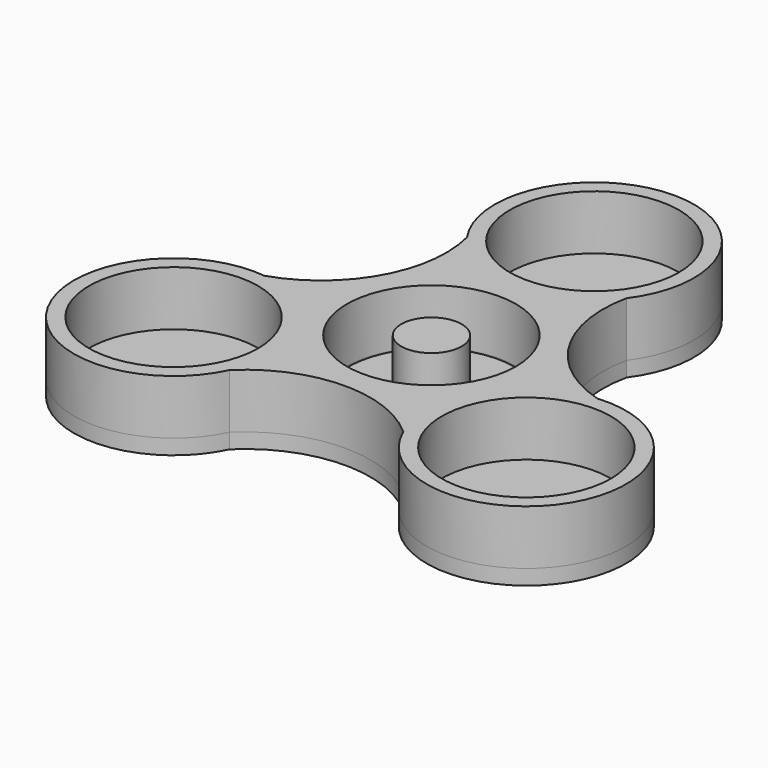
from build123d import *

# Parameters (mm, degrees)
F1_DEPTH = 2
F3_R     = 11.2
F3_R_2   = 11
F4_DEPTH = 2
F2_R     = 11.2
F5_DEPTH = 7.25
F2_R_2   = 4


with BuildPart() as f1:
    # F0 (on Top) → F1 (new body)
    with BuildSketch(Plane.XY):
        with BuildLine():
            ThreePointArc((22.2692580733, -0.3368276066), (12.5901028135, 7.0657954034), (10.5760702249, 19.0836382509))
            ThreePointArc((10.5760702249, 19.0836382509), (0.2283074176, 40.1801913209), (-10.8429277726, 19.4541570183))
            ThreePointArc((-10.8429277726, 19.4541570183), (-12.4142097241, 7.370451171), (-21.8149506344, -0.3826736385))
            ThreePointArc((-21.8149506344, -0.3826736385), (-34.9112201217, -19.8923756369), (-11.4263303007, -19.1173294116))
            ThreePointArc((-11.4263303007, -19.1173294116), (-0.1758930894, -14.4362465745), (11.2388804095, -18.7009646124))
            ThreePointArc((11.2388804095, -18.7009646124), (34.682912704, -20.287815684), (22.2692580733, -0.3368276066))
        make_face()
    extrude(amount=F1_DEPTH)

    # F3 (on face) + F1_face1 (on face) → F4 (cut)
    with BuildSketch(Plane.XY.offset(2)):
        Circle(F3_R)
        Circle(F3_R_2, mode=Mode.SUBTRACT)
    with BuildSketch(Plane(origin=(0, 0, 0), x_dir=(1, 0, 0), z_dir=(0, 0, -1))):
        with BuildLine():
            ThreePointArc((10.5760702249, -19.0836382509), (12.5901028135, -7.0657954034), (22.2692580733, 0.3368276066))
            ThreePointArc((22.2692580733, 0.3368276066), (34.682912704, 20.287815684), (11.2388804095, 18.7009646124))
            ThreePointArc((11.2388804095, 18.7009646124), (-0.1758930894, 14.4362465745), (-11.4263303007, 19.1173294116))
            ThreePointArc((-11.4263303007, 19.1173294116), (-34.9112201217, 19.8923756369), (-21.8149506344, 0.3826736385))
            ThreePointArc((-21.8149506344, 0.3826736385), (-12.4142097241, -7.370451171), (-10.8429277726, -19.4541570183))
            ThreePointArc((-10.8429277726, -19.4541570183), (0.2283074176, -40.1801913209), (10.5760702249, -19.0836382509))
        make_face()
    extrude(amount=-F4_DEPTH, dir=(0, 0, 1), mode=Mode.SUBTRACT)


with BuildPart() as f5:
    # F2 (on face) → F5 (new body)
    with BuildSketch(Plane.XY.offset(2)):
        with BuildLine():
            ThreePointArc((11.2388804095, -18.7009646124), (34.682912704, -20.287815684), (22.2692580733, -0.3368276066))
            ThreePointArc((22.2692580733, -0.3368276066), (12.5901028135, 7.0657954034), (10.5760702249, 19.0836382509))
            ThreePointArc((10.5760702249, 19.0836382509), (0.2283074176, 40.1801913209), (-10.8429277726, 19.4541570183))
            ThreePointArc((-10.8429277726, 19.4541570183), (-12.4142097241, 7.370451171), (-21.8149506344, -0.3826736385))
            ThreePointArc((-21.8149506344, -0.3826736385), (-34.9112201217, -19.8923756369), (-11.4263303007, -19.1173294116))
            ThreePointArc((-11.4263303007, -19.1173294116), (-0.1758930894, -14.4362465745), (11.2388804095, -18.7009646124))
        make_face()
        with Locations((-23.3672410952, -13.4910829365)):
            Circle(F2_R, mode=Mode.SUBTRACT)
        with Locations((23.3672410952, -13.4910829365)):
            Circle(F2_R, mode=Mode.SUBTRACT)
        Circle(F2_R, mode=Mode.SUBTRACT)
        with Locations((0, 26.9821658731)):
            Circle(F2_R, mode=Mode.SUBTRACT)
    extrude(amount=F5_DEPTH)


with BuildPart() as f5b:
    # F2 (on face) → F5, piece 2 (new body)
    with BuildSketch(Plane.XY.offset(2)):
        Circle(F2_R_2)
    extrude(amount=F5_DEPTH)


solid = Compound([f1.part, f5.part, f5b.part])
